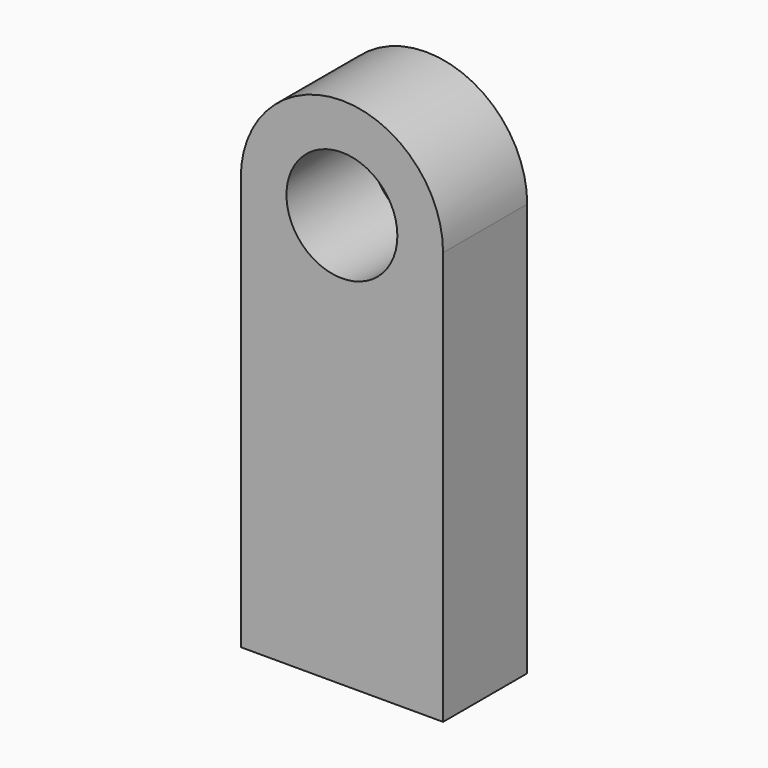
from build123d import *

# Parameters (mm, degrees)
F0_R     = 16.738473
F1_DEPTH = 31.75


with BuildPart() as f1:
    # F0 (on Front) → F1 (new body)
    with BuildSketch(Plane.XZ):
        with BuildLine():
            Line((-30.53054, -62.333655), (30.53054, -62.333655))
            Line((30.53054, -62.333655), (30.53054, 62.333655))
            ThreePointArc((30.53054, 62.333655), (0, 31.803114), (-30.53054, 62.333655))
            Line((-30.53054, 62.333655), (-30.53054, -62.333655))
        make_face()
        with BuildLine():
            ThreePointArc((-30.53054, 62.333655), (0, 31.803114), (30.53054, 62.333655))
            ThreePointArc((30.53054, 62.333655), (0, 92.864195), (-30.53054, 62.333655))
        make_face()
        with Locations((0, 62.333655)):
            Circle(F0_R, mode=Mode.SUBTRACT)
    extrude(amount=F1_DEPTH)


solid = f1.part
